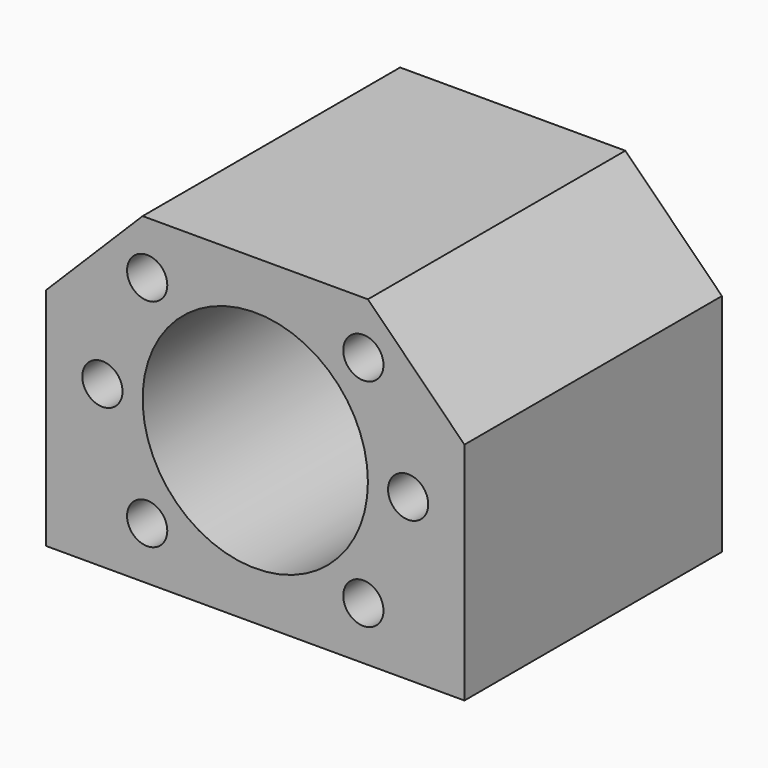
from build123d import *

# Parameters (mm, degrees)
F0_R     = 2.5
F0_R_2   = 14
F1_DEPTH = 40
F2_R     = 2.5
F3_DEPTH = 12


with BuildPart() as f1:
    # F0 (on Front) → F1 (new body)
    with BuildSketch(Plane.XZ):
        Polygon((14, 20), (-14, 20), (-26, 7.999382), (-26, -20), (26, -20), (26, 7.999382), align=None)
        with Locations((-13.435029, -13.435029)):
            Circle(F0_R, mode=Mode.SUBTRACT)
        with Locations((13.435029, -13.435029)):
            Circle(F0_R, mode=Mode.SUBTRACT)
        with Locations((-19, 0)):
            Circle(F0_R, mode=Mode.SUBTRACT)
        with Locations((-13.435029, 13.435029)):
            Circle(F0_R, mode=Mode.SUBTRACT)
        Circle(F0_R_2, mode=Mode.SUBTRACT)
        with Locations((19, 0)):
            Circle(F0_R, mode=Mode.SUBTRACT)
        with Locations((13.435029, 13.435029)):
            Circle(F0_R, mode=Mode.SUBTRACT)
    extrude(amount=-F1_DEPTH)

    # F2 (on face) → F3 (cut)
    with BuildSketch(Plane(origin=(0, 0, -20), x_dir=(1, 0, 0), z_dir=(0, 0, -1))):
        with Locations((20, -32)):
            Circle(F2_R)
        with Locations((-20, -32)):
            Circle(F2_R)
        with Locations((-20, -8)):
            Circle(F2_R)
        with Locations((20, -8)):
            Circle(F2_R)
    extrude(amount=-F3_DEPTH, mode=Mode.SUBTRACT)


solid = f1.part
